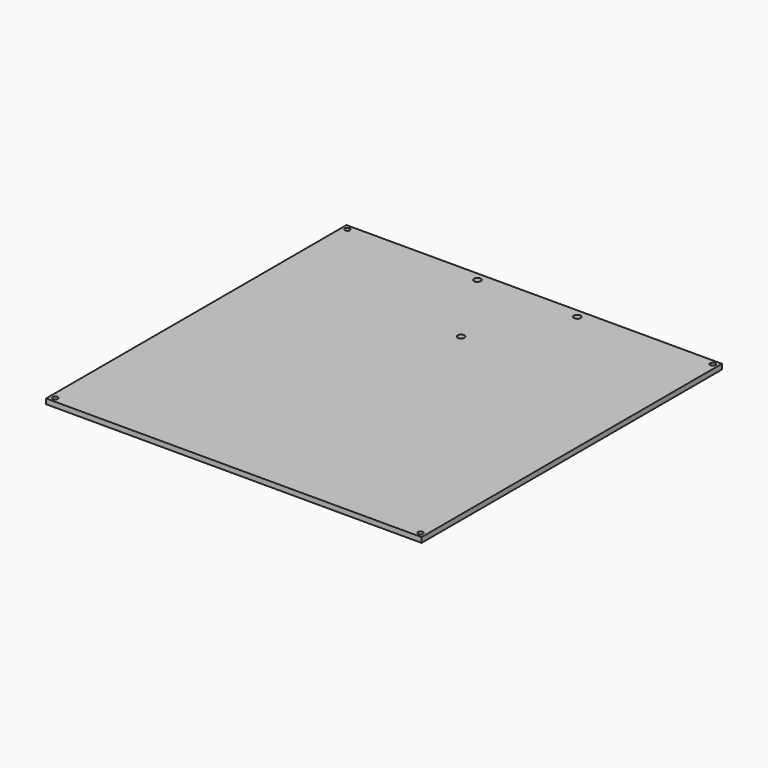
from build123d import *

# Parameters (mm, degrees)
SKETCH_W   = 220
SKETCH_H   = 220
SKETCH_R   = 1.5
SKETCH_R_2 = 2
PAD_DEPTH  = 3


with BuildPart() as part:
    # Sketch → Pad (new body)
    with BuildSketch(Plane.XY):
        Rectangle(SKETCH_W, SKETCH_H)
        with Locations((-107, 107)):
            Circle(SKETCH_R, mode=Mode.SUBTRACT)
        with Locations((107, 107)):
            Circle(SKETCH_R, mode=Mode.SUBTRACT)
        with Locations((107, -107)):
            Circle(SKETCH_R, mode=Mode.SUBTRACT)
        with Locations((-107, -107)):
            Circle(SKETCH_R, mode=Mode.SUBTRACT)
        with Locations((-29.25, 105)):
            Circle(SKETCH_R_2, mode=Mode.SUBTRACT)
        with Locations((29.25, 105)):
            Circle(SKETCH_R_2, mode=Mode.SUBTRACT)
        with Locations((0, 56.5)):
            Circle(SKETCH_R_2, mode=Mode.SUBTRACT)
    extrude(amount=PAD_DEPTH)


solid = part.part
